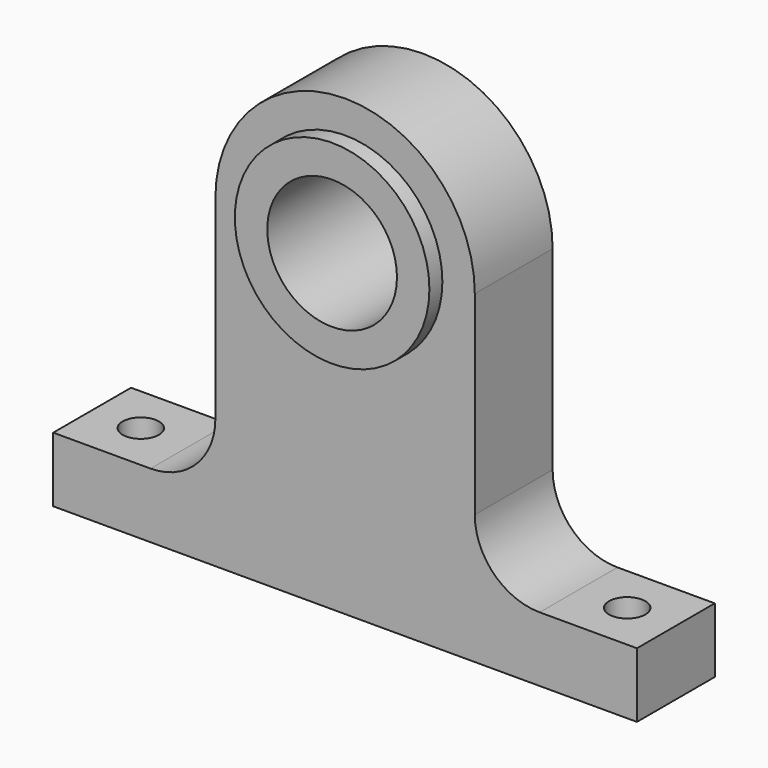
from build123d import *

# Parameters (mm, degrees)
F0_R     = 9.525
F1_DEPTH = 4.7625
F3_D     = 3.556
F4_R     = 9.525
F4_R_2   = 6.35
F5_DEPTH = 6.35


with BuildPart() as f1:
    # F0 (on Front) → F1 (new body, symmetric)
    with BuildSketch(Plane.XZ):
        with BuildLine():
            ThreePointArc((12.7, 0), (0, 12.7), (-12.7, 0))
            Line((-12.7, 0), (-12.7, -19.05))
            ThreePointArc((-12.7, -19.05), (-14.559872, -23.540128), (-19.05, -25.4))
            Line((-19.05, -25.4), (-28.575, -25.4))
            Line((-28.575, -25.4), (-28.575, -31.75))
            Line((-28.575, -31.75), (28.575, -31.75))
            Line((28.575, -31.75), (28.575, -25.4))
            Line((28.575, -25.4), (19.05, -25.4))
            ThreePointArc((19.05, -25.4), (14.559872, -23.540128), (12.7, -19.05))
            Line((12.7, -19.05), (12.7, 0))
        make_face()
        Circle(F0_R, mode=Mode.SUBTRACT)
    extrude(amount=F1_DEPTH, both=True)

    # F3 (through all)
    with Locations(Plane(origin=(0, 0, -31.75), x_dir=(1, 0, 0), z_dir=(0, 0, -1))):
        with Locations((-23.8125, 0), (23.8125, 0)):
            Hole(F3_D / 2)


with BuildPart() as f5:
    # F4 (on Front) → F5 (new body, symmetric)
    with BuildSketch(Plane.XZ):
        Circle(F4_R)
        Circle(F4_R_2, mode=Mode.SUBTRACT)
    extrude(amount=F5_DEPTH, both=True)


solid = Compound([f1.part, f5.part])
